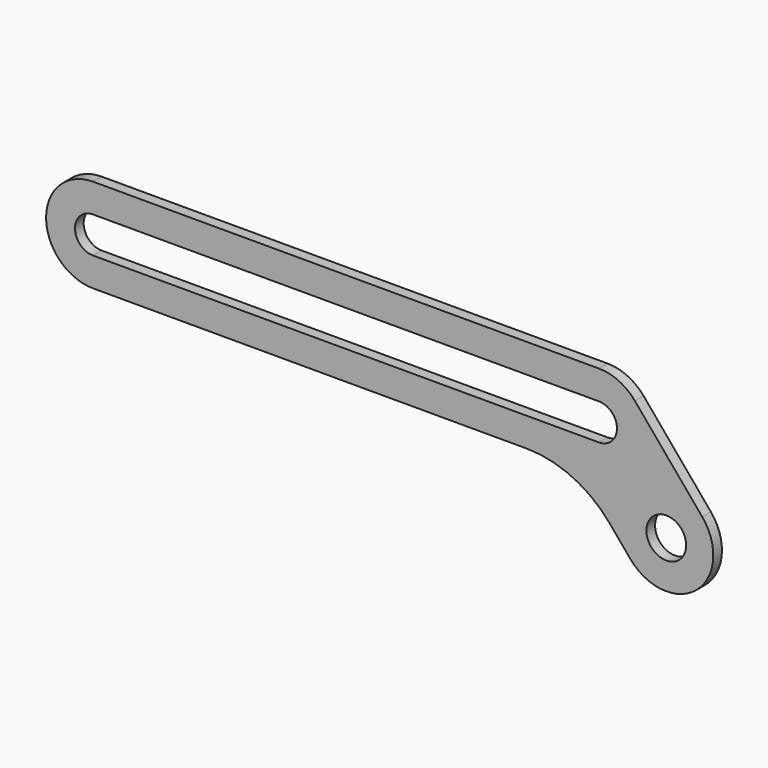
from build123d import *

# Parameters (mm, degrees)
F0_R     = 2.75
F1_DEPTH = 1.5
F2_R     = 15


with BuildPart() as f1:
    # F0 (on Front) → F1 (new body)
    with BuildSketch(Plane.XZ):
        with BuildLine():
            ThreePointArc((4.979289, 4.178119), (2.747019, 5.891001), (0, 6.5))
            Line((0, 6.5), (-70, 6.5))
            ThreePointArc((-70, 6.5), (-76.5, 0), (-70, -6.5))
            Line((-70, -6.5), (-3.031, -6.5))
            Line((-3.031, -6.5), (4.341131, -15.285764))
            ThreePointArc((4.341131, -15.285764), (13.49854, -16.086933), (14.299709, -6.929525))
            Line((14.299709, -6.929525), (4.979289, 4.178119))
        make_face()
        with Locations((9.32042, -11.107644)):
            Circle(F0_R, mode=Mode.SUBTRACT)
        with BuildLine():
            Line((-70, 2.5), (0, 2.5))
            ThreePointArc((0, 2.5), (2.5, 0), (0, -2.5))
            Line((0, -2.5), (-70, -2.5))
            ThreePointArc((-70, -2.5), (-72.5, 0), (-70, 2.5))
        make_face(mode=Mode.SUBTRACT)
    extrude(amount=F1_DEPTH)

    # F2
    f2_edges = [f1.edges().sort_by_distance(p)[0] for p in [
        (-3.031, -0.75, -6.5),
    ]]
    fillet(f2_edges, radius=F2_R)


solid = f1.part
